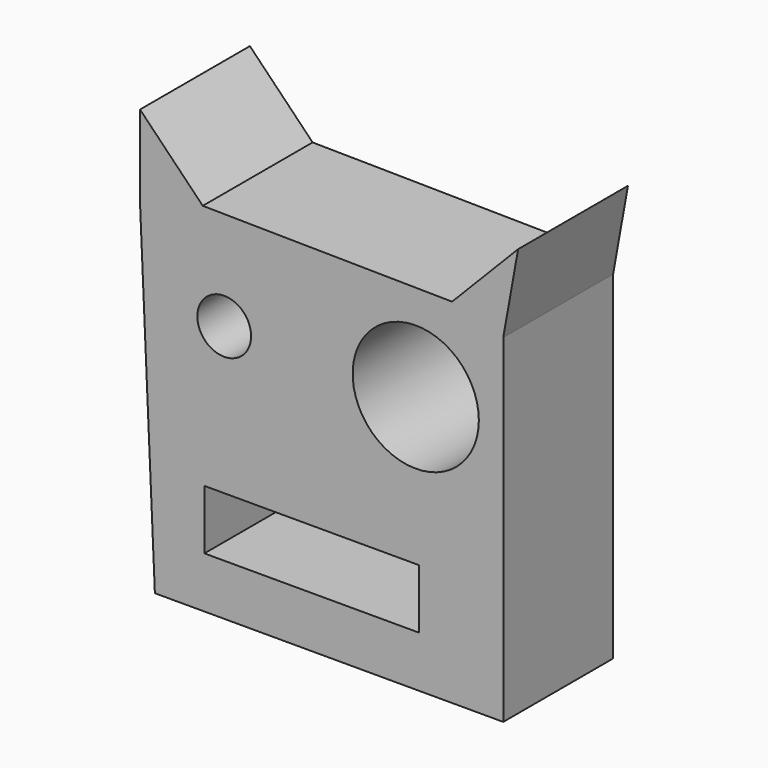
from build123d import *

# Parameters (mm, degrees)
F0_R     = 4.971253
F0_R_2   = 11.668616
F1_DEPTH = 25.4


with BuildPart() as f1:
    # F0 (on Front) → F1 (new body)
    with BuildSketch(Plane.XZ):
        Polygon((19.697119, 37.714638), (-26.415516, 38.325403), (-38.020018, 50.235286), (-38.020018, 34.966201), (-35.271585, -27.637042), (29.163949, -27.637042), (29.163949, 34.966201), (31.912383, 50.235286), align=None)
        Polygon((-26.110133, -12.67334), (-26.110133, -7.17647), (-21.224027, -7.17647), (-16.33792, -7.17647), (-12.062577, -7.17647), (-6.260324, -7.17647), (-2.901126, -7.17647), (2.290364, -7.17647), (6.260325, -7.17647), (9.314141, -7.17647), (13.589485, -7.17647), (13.589485, -12.67334), (13.589485, -18.17021), (9.314141, -18.17021), (6.260325, -18.17021), (2.290364, -18.17021), (-2.901126, -18.17021), (-6.260324, -18.17021), (-12.062577, -18.17021), (-16.33792, -18.17021), (-21.224027, -18.17021), (-26.110133, -18.17021), align=None, mode=Mode.SUBTRACT)
        with Locations((-22.445554, 20.002501)):
            Circle(F0_R, mode=Mode.SUBTRACT)
        with Locations((12.97872, 20.002501)):
            Circle(F0_R_2, mode=Mode.SUBTRACT)
    extrude(amount=F1_DEPTH)


solid = f1.part
